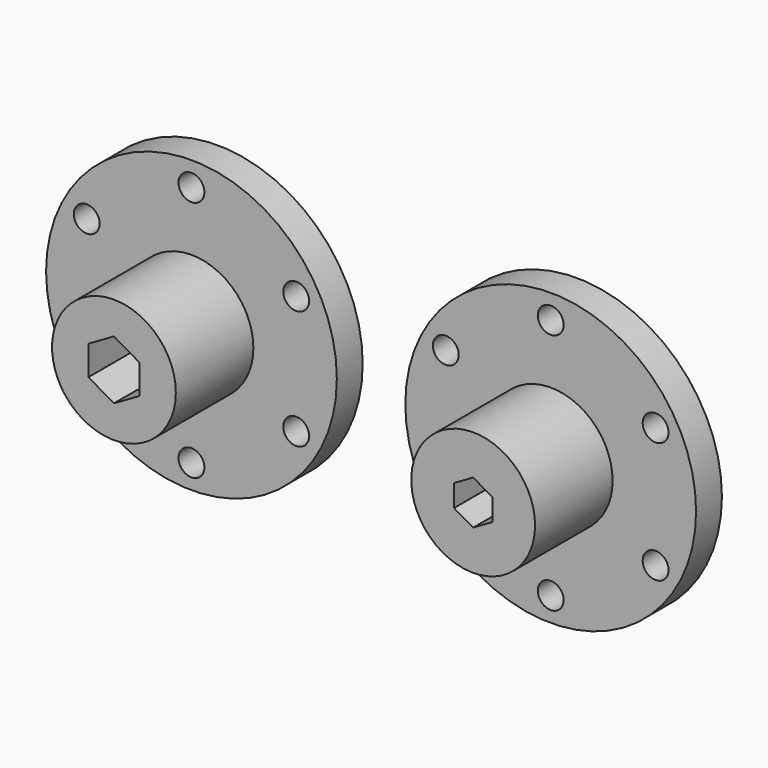
from build123d import *

# Parameters (mm, degrees)
F0_R     = 28.575
F0_R_2   = 2.54
F1_DEPTH = 6.35
F2_R     = 12.1666
F3_DEPTH = 19.05
F5_DEPTH = 25.401
F6_DEPTH = 25.401


with BuildPart() as f1:
    # F0 (on Front) → F1 (new body)
    with BuildSketch(Plane.XZ):
        Circle(F0_R)
        with Locations((0, -23.8125)):
            Circle(F0_R_2, mode=Mode.SUBTRACT)
        with Locations((-20.589199, -11.684256)):
            Circle(F0_R_2, mode=Mode.SUBTRACT)
        with Locations((20.589199, -11.684256)):
            Circle(F0_R_2, mode=Mode.SUBTRACT)
        with Locations((-20.589199, 11.684256)):
            Circle(F0_R_2, mode=Mode.SUBTRACT)
        with Locations((20.589199, 11.684256)):
            Circle(F0_R_2, mode=Mode.SUBTRACT)
        with Locations((0, 23.8125)):
            Circle(F0_R_2, mode=Mode.SUBTRACT)
        with Locations((70.607326, 0)):
            Circle(F0_R)
        with Locations((70.607326, -23.8125)):
            Circle(F0_R_2, mode=Mode.SUBTRACT)
        with Locations((49.985096, -11.90625)):
            Circle(F0_R_2, mode=Mode.SUBTRACT)
        with Locations((91.229556, -11.90625)):
            Circle(F0_R_2, mode=Mode.SUBTRACT)
        with Locations((49.985096, 11.90625)):
            Circle(F0_R_2, mode=Mode.SUBTRACT)
        with Locations((91.229556, 11.90625)):
            Circle(F0_R_2, mode=Mode.SUBTRACT)
        with Locations((70.607326, 23.8125)):
            Circle(F0_R_2, mode=Mode.SUBTRACT)
    extrude(amount=F1_DEPTH)

    # F2 (on face) → F3 (join)
    with BuildSketch(Plane.XZ.offset(6.35)):
        Circle(F2_R)
        with Locations((70.607326, 0)):
            Circle(F2_R)
    extrude(amount=F3_DEPTH)

    # F4 (on face) → F5 (cut, through all)
    with BuildSketch(Plane.XZ.offset(25.4)):
        Polygon((0, 5.792555), (-5.0165, 2.896278), (-5.0165, -2.896278), (0, -5.792555), (5.0165, -2.896278), (5.0165, 2.896278), align=None)
        Polygon((74.361326, 2.167373), (70.607326, 4.334746), (66.853326, 2.167373), (66.853326, -2.167373), (70.607326, -4.334746), (74.361326, -2.167373), align=None)
    extrude(amount=-F5_DEPTH, mode=Mode.SUBTRACT)

    # F4 (on face) → F6 (cut, through all)
    with BuildSketch(Plane.XZ.offset(25.4)):
        Polygon((74.361326, 2.167373), (70.607326, 4.334746), (66.853326, 2.167373), (66.853326, -2.167373), (70.607326, -4.334746), (74.361326, -2.167373), align=None)
    extrude(amount=-F6_DEPTH, mode=Mode.SUBTRACT)


solid = f1.part
